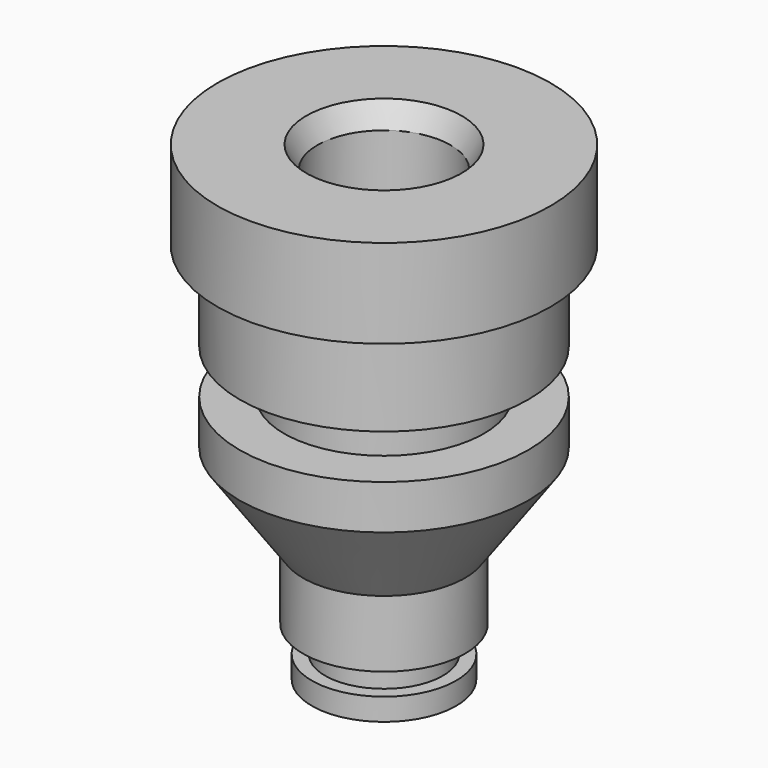
from build123d import *


with BuildPart() as f1:
    # F0 (on Right) → F1 (revolve)
    with BuildSketch(Plane.YZ):
        Polygon((2.15, 6), (2.15, 0), (3.25, 0), (3.25, 1), (2.65, 1), (2.65, 2.2), (3.65, 2.2), (3.65, 5.2), (6.5, 9.2), (6.5, 11.2), (4.5, 11.2), (4.5, 13.2), (6.5, 13.2), (6.5, 17.2), (7.5, 17.2), (7.5, 21.2), (3.5, 21.2), (3, 20.2), (3, 17.2), (3.5, 16.2), (3, 15.2), (3, 8.7), align=None)
    revolve(axis=Axis((0, 0, 2.135091), (0, 0, 1)))


solid = f1.part
